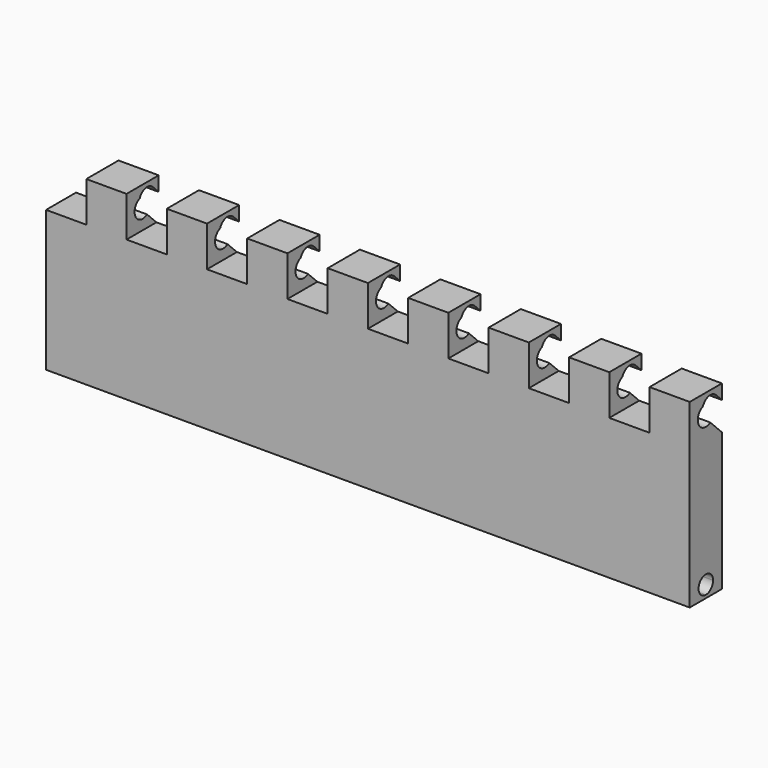
from build123d import *

# Parameters (mm, degrees)
F0_W     = 25.4
F0_H     = 25.4
F1_DEPTH = 25.4
F3_DEPTH = 412.75
F5_DEPTH = 598.932


with BuildPart() as f1:
    # F0 (on Front) → F1 (new body)
    with BuildSketch(Plane.XZ):
        Polygon((-203.2, -57.15), (203.2, -57.15), (203.2, 31.75), (177.8, 31.75), (152.4, 31.75), (127, 31.75), (101.6, 31.75), (76.2, 31.75), (50.8, 31.75), (25.4, 31.75), (0, 31.75), (-25.4, 31.75), (-50.8, 31.75), (-76.2, 31.75), (-101.6, 31.75), (-127, 31.75), (-152.4, 31.75), (-177.8, 31.75), (-203.2, 31.75), align=None)
        with Locations((190.5, 44.45)):
            Rectangle(F0_W, F0_H)
        with Locations((139.7, 44.45)):
            Rectangle(F0_W, F0_H)
        with Locations((88.9, 44.45)):
            Rectangle(F0_W, F0_H)
        with Locations((38.1, 44.45)):
            Rectangle(F0_W, F0_H)
        with Locations((-12.7, 44.45)):
            Rectangle(F0_W, F0_H)
        with Locations((-63.5, 44.45)):
            Rectangle(F0_W, F0_H)
        with Locations((-114.3, 44.45)):
            Rectangle(F0_W, F0_H)
        with Locations((-165.1, 44.45)):
            Rectangle(F0_W, F0_H)
    extrude(amount=F1_DEPTH)

    # F2 (on face) → F3 (cut)
    with BuildSketch(Plane.YZ.offset(203.2)):
        with BuildLine():
            ThreePointArc((-4.617769491, 52.532230509), (-8.5240978333, 54.3652091128), (-12.7, 53.278446593))
            Line((-12.7, 53.278446593), (-12.7, 50.8))
            ThreePointArc((-12.7, 50.8), (-10.2699602045, 50.3166350314), (-8.2098719395, 48.9401280605))
            Line((-8.2098719395, 48.9401280605), (-4.617769491, 52.532230509))
        make_face()
        with BuildLine():
            Line((-12.7, 50.8), (-12.7, 53.278446593))
            ThreePointArc((-12.7, 53.278446593), (-14.0784278664, 51.9938524898), (-15.0192191193, 50.3613215677))
            ThreePointArc((-15.0192191193, 50.3613215677), (-13.8801711836, 50.6893666327), (-12.7, 50.8))
        make_face()
        with BuildLine():
            ThreePointArc((-8.2098719395, 48.9401280605), (-10.2699602045, 50.3166350314), (-12.7, 50.8))
            Line((-12.7, 50.8), (-12.7, 44.45))
            Line((-12.7, 44.45), (-8.2098719395, 48.9401280605))
        make_face()
        with BuildLine():
            Line((-12.7, 44.45), (-12.7, 50.8))
            ThreePointArc((-12.7, 50.8), (-13.8801711836, 50.6893666327), (-15.0192191193, 50.3613215677))
            ThreePointArc((-15.0192191193, 50.3613215677), (-15.3239526387, 46.744736211), (-13.5980256121, 43.5519743879))
            Line((-13.5980256121, 43.5519743879), (-12.7, 44.45))
        make_face()
        with BuildLine():
            ThreePointArc((-13.5980256121, 43.5519743879), (-15.3239526387, 46.744736211), (-15.0192191193, 50.3613215677))
            ThreePointArc((-15.0192191193, 50.3613215677), (-18.9160550871, 45.7473662374), (-17.1901280605, 39.9598719395))
            Line((-17.1901280605, 39.9598719395), (-13.5980256121, 43.5519743879))
        make_face()
        with BuildLine():
            Line((-8.2098719395, 48.9401280605), (-12.7, 44.45))
            Line((-12.7, 44.45), (-13.5980256121, 43.5519743879))
            Line((-13.5980256121, 43.5519743879), (-9.1986165609, 39.1525653367))
            ThreePointArc((-9.1986165609, 39.1525653367), (-7.1073134882, 41.4426161567), (-6.35, 44.45))
            ThreePointArc((-6.35, 44.45), (-6.8333649686, 46.8800397955), (-8.2098719395, 48.9401280605))
        make_face()
        with BuildLine():
            Line((-13.5980256121, 43.5519743879), (-17.1901280605, 39.9598719395))
            ThreePointArc((-17.1901280605, 39.9598719395), (-13.3382319087, 38.1321554284), (-9.1986165609, 39.1525653367))
            Line((-9.1986165609, 39.1525653367), (-13.5980256121, 43.5519743879))
        make_face()
        with BuildLine():
            Line((0, 40.7302561211), (-8.2098719395, 48.9401280605))
            ThreePointArc((-8.2098719395, 48.9401280605), (-6.8333649686, 46.8800397955), (-6.35, 44.45))
            ThreePointArc((-6.35, 44.45), (-7.1073134882, 41.4426161567), (-9.1986165609, 39.1525653367))
            Line((-9.1986165609, 39.1525653367), (0, 29.9539487758))
            Line((0, 29.9539487758), (0, 40.7302561211))
        make_face()
        Polygon((0, 47.9144610179), (-4.617769491, 52.532230509), (-8.2098719395, 48.9401280605), (0, 40.7302561211), align=None)
    extrude(amount=-F3_DEPTH, mode=Mode.SUBTRACT)

    # F4 (on face) → F5 (cut)
    with BuildSketch(Plane.YZ.offset(203.2)):
        with BuildLine():
            ThreePointArc((-12.7, -55.245), (-8.6588847455, -53.5711152545), (-6.985, -49.53))
            ThreePointArc((-6.985, -49.53), (-16.7411152545, -45.4888847455), (-12.7, -55.245))
        make_face()
    extrude(amount=-F5_DEPTH, mode=Mode.SUBTRACT)


solid = f1.part
